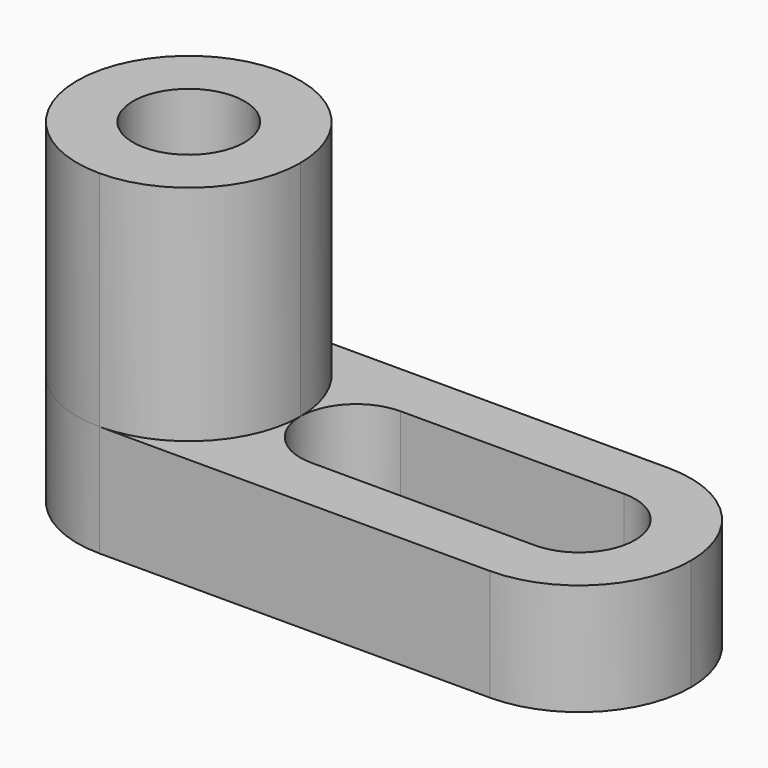
from build123d import *

# Parameters (mm, degrees)
F0_W      = 69.85
F0_H      = 12.7
F1_DEPTH  = 25.4
F3_DEPTH  = 12.7
F5_DEPTH  = 25.4
F6_DEPTH  = 12.7
F7_R      = 6.35
F8_DEPTH  = 38.1
F10_DEPTH = 12.7


with BuildPart() as f1:
    # F0 (on Front) → F1 (new body)
    with BuildSketch(Plane.XZ):
        with Locations((34.925, 6.35)):
            Rectangle(F0_W, F0_H)
    extrude(amount=F1_DEPTH)

    # F2 (on face) → F3 (cut)
    with BuildSketch(Plane.XY.offset(12.7)):
        with BuildLine():
            ThreePointArc((38.1, -12.7), (36.2401280605, -8.2098719395), (31.75, -6.35))
            ThreePointArc((31.75, -6.35), (25.4, -12.7), (31.75, -19.05))
            ThreePointArc((31.75, -19.05), (36.2401280605, -17.1901280605), (38.1, -12.7))
        make_face()
        with BuildLine():
            ThreePointArc((57.15, -19.05), (50.8, -12.7), (57.15, -6.35))
            Line((57.15, -6.35), (31.75, -6.35))
            ThreePointArc((31.75, -6.35), (36.2401280605, -8.2098719395), (38.1, -12.7))
            ThreePointArc((38.1, -12.7), (36.2401280605, -17.1901280605), (31.75, -19.05))
            Line((31.75, -19.05), (57.15, -19.05))
        make_face()
        with BuildLine():
            ThreePointArc((57.15, -19.05), (61.6401280605, -17.1901280605), (63.5, -12.7))
            ThreePointArc((63.5, -12.7), (61.6401280605, -8.2098719395), (57.15, -6.35))
            ThreePointArc((57.15, -6.35), (50.8, -12.7), (57.15, -19.05))
        make_face()
    extrude(amount=-F3_DEPTH, mode=Mode.SUBTRACT)

    # F4 (on face) → F5 (join)
    with BuildSketch(Plane.XY.offset(12.7)):
        with BuildLine():
            ThreePointArc((12.7, -25.4), (21.6802561211, -21.6802561211), (25.4, -12.7))
            ThreePointArc((25.4, -12.7), (21.6802561211, -3.7197438789), (12.7, 0))
            ThreePointArc((12.7, 0), (3.7197438789, -3.7197438789), (0, -12.7))
            ThreePointArc((0, -12.7), (3.7197438789, -21.6802561211), (12.7, -25.4))
        make_face()
    extrude(amount=F5_DEPTH)

    # F6 (cut): faces of the model
    f6_faces = [f1.faces().sort_by_distance(p)[0] for p in [
        (2.8367728246, -2.8367728246, 12.7),
        (2.8367728246, -22.5632271754, 12.7),
    ]]
    extrude(f6_faces, amount=-F6_DEPTH, mode=Mode.SUBTRACT)

    # F7 (on face) → F8 (cut)
    with BuildSketch(Plane.XY.offset(38.1)):
        with Locations((12.7, -12.7)):
            Circle(F7_R)
    extrude(amount=-F8_DEPTH, mode=Mode.SUBTRACT)

    # F9 (on face) → F10 (cut)
    with BuildSketch(Plane.XY.offset(12.7)):
        with BuildLine():
            ThreePointArc((57.15, 0), (66.1302561211, -3.7197438789), (69.85, -12.7))
            Line((69.85, -12.7), (69.85, 0))
            Line((69.85, 0), (57.15, 0))
        make_face()
        with BuildLine():
            ThreePointArc((69.85, -12.7), (66.1302561211, -21.6802561211), (57.15, -25.4))
            Line((57.15, -25.4), (69.85, -25.4))
            Line((69.85, -25.4), (69.85, -12.7))
        make_face()
    extrude(amount=-F10_DEPTH, mode=Mode.SUBTRACT)


solid = f1.part
